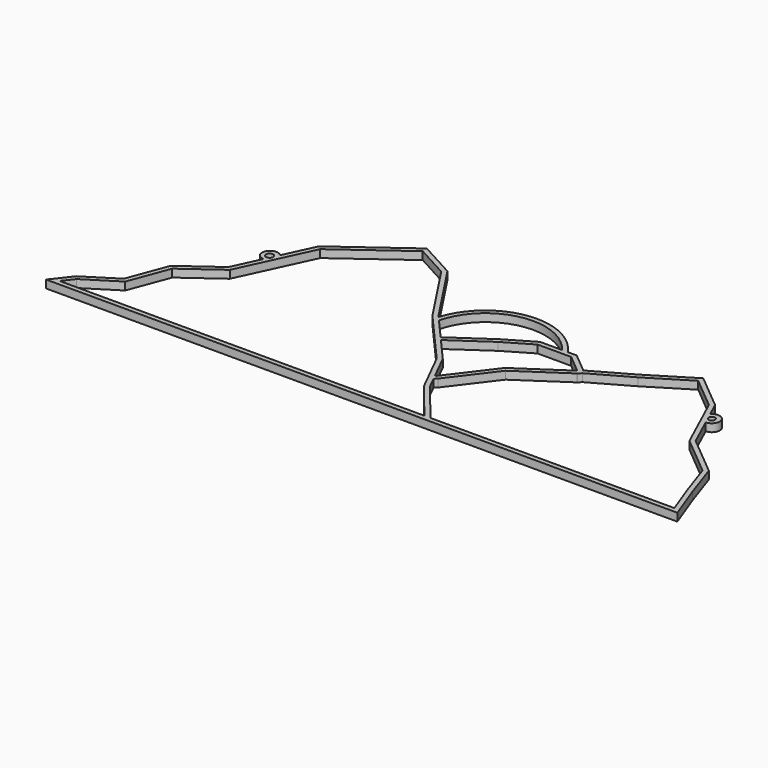
from build123d import *

# Parameters (mm, degrees)
F1_DEPTH = 0.635


with BuildPart() as f1:
    # F0 (on Top) → F1 (new body)
    with BuildSketch(Plane.XY):
        with BuildLine():
            Line((-29.810913, 1.540789), (-31.016748, 0))
            Line((-31.016748, 0), (19.896272, 0))
            Line((19.896272, 0), (18.82442, 2.880605))
            Line((18.82442, 2.880605), (17.860188, 5.716184))
            Line((17.860188, 5.716184), (14.670988, 8.373851))
            Line((14.670988, 8.373851), (13.588352, 10.739779))
            ThreePointArc((13.588352, 10.739779), (14.154572, 11.638903), (13.104023, 11.798203))
            Line((13.104023, 11.798203), (12.573407, 12.957779))
            Line((12.573407, 12.957779), (9.713667, 15.340896))
            Line((9.713667, 15.340896), (6.230144, 13.197191))
            Line((6.230144, 13.197191), (3.148568, 11.455429))
            Line((3.148568, 11.455429), (1.540788, 12.795246))
            Line((1.540788, 12.795246), (0.818556, 12.795246))
            ThreePointArc((0.818556, 12.795246), (-4.276831, 15.082857), (-8.518913, 11.449555))
            Line((-8.518913, 11.449555), (-8.641816, 11.589411))
            Line((-8.641816, 11.589411), (-11.991355, 16.680711))
            Line((-11.991355, 16.680711), (-14.938951, 18.288492))
            Line((-14.938951, 18.288492), (-20.432198, 14.269044))
            Line((-20.432198, 14.269044), (-21.582795, 11.795261))
            ThreePointArc((-21.582795, 11.795261), (-22.634312, 11.642479), (-22.073679, 10.739861))
            Line((-22.073679, 10.739861), (-23.11183, 8.507834))
            Line((-23.11183, 8.507834), (-26.059426, 6.364127))
            Line((-26.059426, 6.364127), (-27.265261, 3.148568))
            Line((-27.265261, 3.148568), (-29.810913, 1.540789))
        make_face()
        Polygon((-25.742841, 6.123265), (-22.807967, 8.25772), (-20.128087, 14.019463), (-14.909113, 17.838224), (-12.257344, 16.391804), (-8.96011, 11.380007), (-8.92801, 11.337907), (-5.075081, 6.95354), (-3.355364, 3.514106), (-3.309465, 3.443231), (-0.804003, 0.381), (-30.234767, 0.381), (-29.551596, 1.253941), (-26.9535, 2.894843), align=None, mode=Mode.SUBTRACT)
        with BuildLine():
            Line((-3.717773, 5.090865), (-4.756348, 7.168017))
            Line((-4.756348, 7.168017), (-6.445825, 9.090525))
            Line((-6.445825, 9.090525), (-3.479574, 11.133942))
            Line((-3.479574, 11.133942), (-1.303058, 12.414246))
            Line((-1.303058, 12.414246), (1.402847, 12.414246))
            Line((1.402847, 12.414246), (2.869082, 11.192383))
            Line((2.869082, 11.192383), (-0.923488, 8.639836))
            Line((-0.923488, 8.639836), (-3.616762, 5.088058))
            ThreePointArc((-3.616762, 5.088058), (-3.667275, 5.089198), (-3.717773, 5.090865))
        make_face(mode=Mode.SUBTRACT)
        Polygon((-0.311727, 0.381), (-3.014587, 3.684495), (-3.506604, 4.668528), (-3.313175, 4.85785), (-0.658187, 8.359138), (3.081815, 10.876305), (3.130206, 10.914939), (3.336041, 11.123745), (6.423789, 12.868994), (9.680128, 14.872894), (12.262983, 12.720515), (14.324537, 8.215317), (14.427077, 8.081159), (17.533967, 5.492083), (18.463705, 2.757945), (18.467338, 2.747738), (19.347984, 0.381), align=None, mode=Mode.SUBTRACT)
        with BuildLine():
            ThreePointArc((-21.770268, 11.392193), (-21.766019, 11.363603), (-21.764598, 11.334734))
            ThreePointArc((-21.764598, 11.334734), (-22.351069, 11.305865), (-21.770268, 11.392193))
        make_face(mode=Mode.SUBTRACT)
        with BuildLine():
            Line((-3.684495, 11.455429), (-6.699082, 9.378714))
            Line((-6.699082, 9.378714), (-8.218903, 11.108165))
            ThreePointArc((-8.218903, 11.108165), (-4.466352, 14.664212), (0.353822, 12.795246))
            Line((0.353822, 12.795246), (-1.406807, 12.795246))
            Line((-1.406807, 12.795246), (-3.684495, 11.455429))
        make_face(mode=Mode.SUBTRACT)
        with BuildLine():
            ThreePointArc((13.831154, 11.37468), (13.631239, 11.126505), (13.346187, 11.268991))
            ThreePointArc((13.346187, 11.268991), (13.523069, 11.622855), (13.831154, 11.37468))
        make_face(mode=Mode.SUBTRACT)
    extrude(amount=F1_DEPTH)


solid = f1.part
